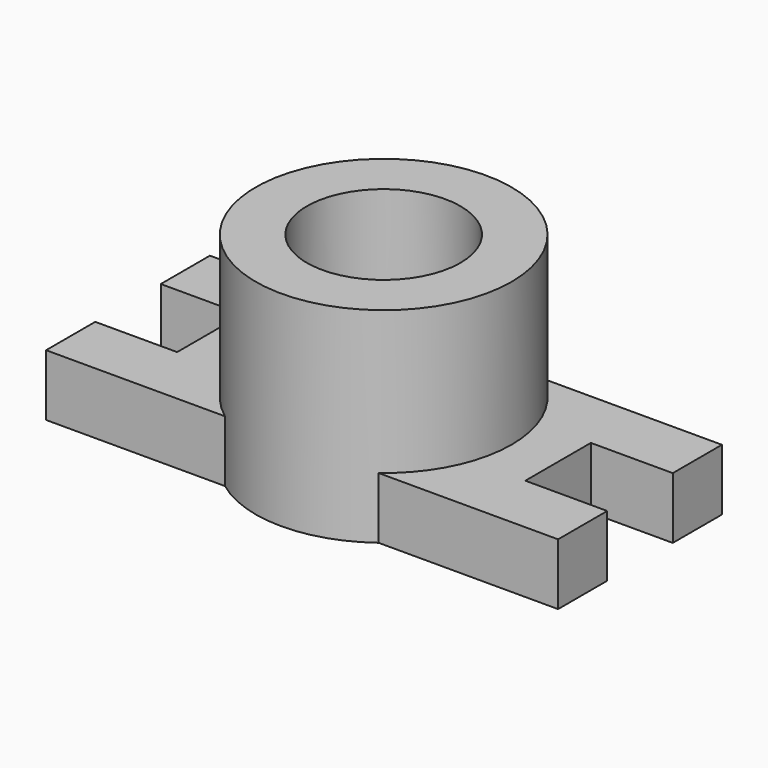
from build123d import *

# Parameters (mm, degrees)
F0_R     = 25
F1_DEPTH = 40
F2_R     = 15
F3_DEPTH = 20
F5_DEPTH = 12
F6_W     = 16
F6_H     = 16
F7_DEPTH = 12
F8_W     = 16
F8_H     = 16
F9_DEPTH = 12


with BuildPart() as f1:
    # F0 (on Top) → F1 (new body)
    with BuildSketch(Plane.XY):
        Circle(F0_R)
    extrude(amount=F1_DEPTH)

    # F2 (on face) → F3 (cut)
    with BuildSketch(Plane.XY.offset(40)):
        Circle(F2_R)
    extrude(amount=-F3_DEPTH, mode=Mode.SUBTRACT)

    # F4 (on face) → F5 (join)
    with BuildSketch(Plane(origin=(0, 0, 0), x_dir=(1, 0, 0), z_dir=(0, 0, -1))):
        with BuildLine():
            Line((50.0656880438, 20), (15, 20))
            ThreePointArc((15, 20), (22.360679775, 11.1803398875), (25, 0))
            ThreePointArc((25, 0), (22.360679775, -11.1803398875), (15, -20))
            Line((15, -20), (50.0656880438, -20))
            Line((50.0656880438, -20), (50.0656880438, 20))
        make_face()
        with BuildLine():
            Line((-15, 20), (-49.9343119562, 20))
            Line((-49.9343119562, 20), (-49.9343119562, -20))
            Line((-49.9343119562, -20), (-15, -20))
            ThreePointArc((-15, -20), (-25, 0), (-15, 20))
        make_face()
        with BuildLine():
            Line((15, 20), (-15, 20))
            ThreePointArc((-15, 20), (-25, 0), (-15, -20))
            Line((-15, -20), (15, -20))
            ThreePointArc((15, -20), (22.360679775, -11.1803398875), (25, 0))
            ThreePointArc((25, 0), (22.360679775, 11.1803398875), (15, 20))
        make_face()
    extrude(amount=-F5_DEPTH)

    # F6 (on face) → F7 (cut)
    with BuildSketch(Plane.XY.offset(12)):
        with Locations((-41.9343119562, 0)):
            Rectangle(F6_W, F6_H)
    extrude(amount=-F7_DEPTH, mode=Mode.SUBTRACT)

    # F8 (on face) → F9 (cut)
    with BuildSketch(Plane.XY.offset(12)):
        with Locations((42.0656880438, 0)):
            Rectangle(F8_W, F8_H)
    extrude(amount=-F9_DEPTH, mode=Mode.SUBTRACT)


solid = f1.part
